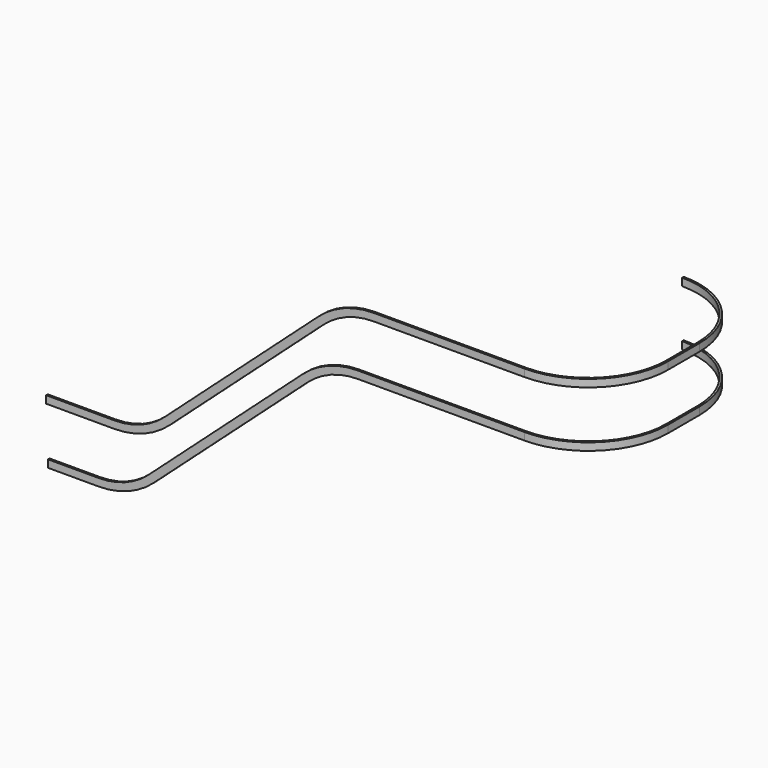
from build123d import *

# Parameters (mm, degrees)
F1_DEPTH   = 10
F1_FACE1_W = 10
F1_FACE1_H = 38


with BuildPart() as f1:
    # F0 (on Front) → F1 (new body)
    with BuildSketch(Plane.XZ):
        with BuildLine():
            Line((-404.4350288425, 309.5649711575), (-404.4350288425, 271.5649711575))
            Line((-404.4350288425, 271.5649711575), (-57.9806428567, 271.5649711575))
            ThreePointArc((-57.9806428567, 271.5649711575), (92.1755280028, 299.3947724551), (222.3850812077, 379.1872892824))
            Line((222.3850812077, 379.1872892824), (1003.2252882849, 1082.2589696852))
            ThreePointArc((1003.2252882849, 1082.2589696852), (1121.6258605309, 1154.8149336737), (1258.1640493077, 1180.1207911783))
            Line((1258.1640493077, 1180.1207911783), (2024.6184352935, 1180.1207911783))
            Line((2024.6184352935, 1180.1207911783), (2024.6184352935, 1218.1207911783))
            Line((2024.6184352935, 1218.1207911783), (1258.1640493077, 1218.1207911783))
            ThreePointArc((1258.1640493077, 1218.1207911783), (1108.0078784482, 1190.2909898806), (977.7983252433, 1110.4984730533))
            Line((977.7983252433, 1110.4984730533), (196.958118166, 407.4267926506))
            ThreePointArc((196.958118166, 407.4267926506), (78.55754592, 334.870828662), (-57.9806428567, 309.5649711575))
            Line((-57.9806428567, 309.5649711575), (-404.4350288425, 309.5649711575))
        make_face()
    extrude(amount=F1_DEPTH)

    # F3: sweep along a path in F2
    with BuildLine(Plane.XY.offset(1218.1207911783)) as f3_path:
        ThreePointArc((2024.6184352935, -5), (2307.4611477681, 112.1572875254), (2424.6184352935, 395))
        Line((2424.6184352935, 395), (2424.6184352935, 595))
        ThreePointArc((2424.6184352935, 595), (2307.4611477681, 877.8427124746), (2024.6184352935, 995))
    # F1_face1 (on face) → F3 (sweep)
    with BuildSketch(Plane(origin=(2024.6184352935, -5, 1199.1207911783), x_dir=(0, 1, 0), z_dir=(1, 0, 0))):
        Rectangle(F1_FACE1_W, F1_FACE1_H)
    sweep(path=f3_path.line)


with BuildPart() as f1b:
    # F0 (on Front) → F1, piece 2 (new body)
    with BuildSketch(Plane.XZ):
        with BuildLine():
            Line((-137.9806428567, 26.0649711575), (-394.4350288425, 26.0649711575))
            Line((-394.4350288425, 26.0649711575), (-394.4350288425, -11.9350288425))
            Line((-394.4350288425, -11.9350288425), (-137.9806428567, -11.9350288425))
            ThreePointArc((-137.9806428567, -11.9350288425), (12.1755280028, 15.8947724551), (142.3850812077, 95.6872892824))
            Line((142.3850812077, 95.6872892824), (923.2252882849, 798.7589696852))
            ThreePointArc((923.2252882849, 798.7589696852), (1041.6258605309, 871.3149336737), (1178.1640493077, 896.6207911783))
            Line((1178.1640493077, 896.6207911783), (2024.6184352935, 896.6207911783))
            Line((2024.6184352935, 896.6207911783), (2024.6184352935, 934.6207911783))
            Line((2024.6184352935, 934.6207911783), (1178.1640493077, 934.6207911783))
            ThreePointArc((1178.1640493077, 934.6207911783), (1028.0078784482, 906.7909898806), (897.7983252433, 826.9984730533))
            Line((897.7983252433, 826.9984730533), (116.958118166, 123.9267926506))
            ThreePointArc((116.958118166, 123.9267926506), (-1.44245408, 51.370828662), (-137.9806428567, 26.0649711575))
        make_face()
    extrude(amount=F1_DEPTH)

    # F5: sweep along a path in F4
    with BuildLine(Plane(origin=(0, 0, 896.6207911783), x_dir=(1, 0, 0), z_dir=(0, 0, -1))) as f5_path:
        ThreePointArc((2024.6184352935, 5), (2307.4611477681, -112.1572875254), (2424.6184352935, -395))
        Line((2424.6184352935, -395), (2424.6184352935, -595))
        ThreePointArc((2424.6184352935, -595), (2307.4611477681, -877.8427124746), (2024.6184352935, -995))
    # F1_face1 (on face) → F5 (sweep)
    with BuildSketch(Plane(origin=(2024.6184352935, -5, 1199.1207911783), x_dir=(0, 1, 0), z_dir=(1, 0, 0))):
        with Locations((0, -283.5)):
            Rectangle(F1_FACE1_W, F1_FACE1_H)
    sweep(path=f5_path.line)


solid = Compound([f1.part, f1b.part])
